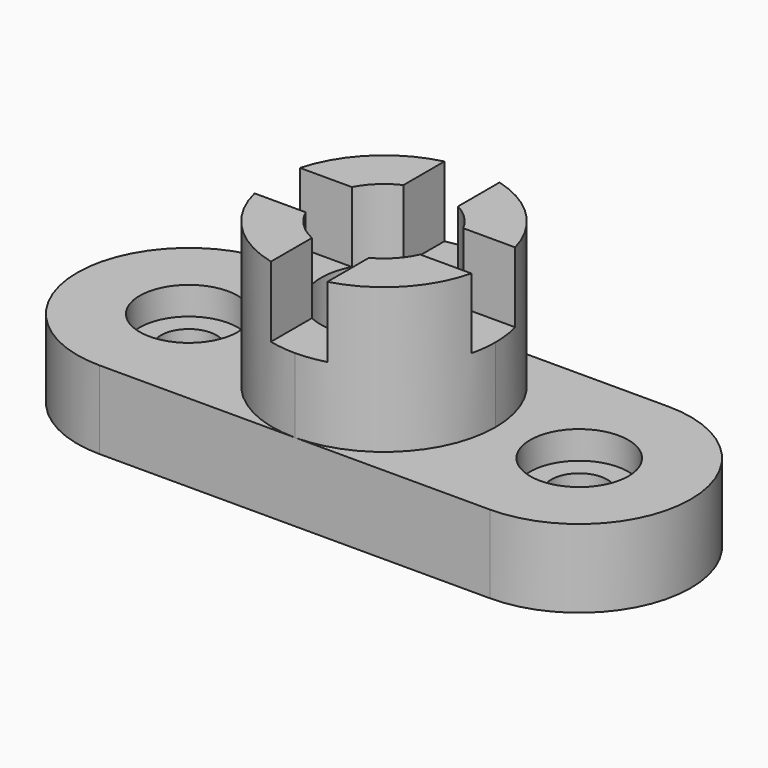
from build123d import *

# Parameters (mm, degrees)
F0_R     = 6.35
F0_R_2   = 14.351
F1_DEPTH = 17.78
F2_DEPTH = 33.02
F4_DEPTH = 16.002
F5_DEPTH = 16.0782
F6_DEPTH = 16.002
F7_DEPTH = 16.002
F8_R     = 11.176
F8_R_2   = 6.35
F9_DEPTH = 6.35


with BuildPart() as f1:
    # F0 (on Top) → F1 (new body)
    with BuildSketch(Plane.XY):
        with BuildLine():
            Line((44.45, 50.8), (0, 50.8))
            ThreePointArc((0, 50.8), (-25.4, 25.4), (0, 0))
            Line((0, 0), (44.45, 0))
            ThreePointArc((44.45, 0), (19.05, 25.4), (44.45, 50.8))
        make_face()
        with Locations((0, 25.4)):
            Circle(F0_R, mode=Mode.SUBTRACT)
        with BuildLine():
            Line((88.9, 50.8), (44.45, 50.8))
            ThreePointArc((44.45, 50.8), (62.4105122421, 43.3605122421), (69.85, 25.4))
            ThreePointArc((69.85, 25.4), (62.4105122421, 7.4394877579), (44.45, 0))
            Line((44.45, 0), (88.9, 0))
            ThreePointArc((88.9, 0), (114.3, 25.4), (88.9, 50.8))
        make_face()
        with Locations((88.9, 25.4)):
            Circle(F0_R, mode=Mode.SUBTRACT)
        with BuildLine():
            ThreePointArc((69.85, 25.4), (62.4105122421, 43.3605122421), (44.45, 50.8))
            ThreePointArc((44.45, 50.8), (19.05, 25.4), (44.45, 0))
            ThreePointArc((44.45, 0), (62.4105122421, 7.4394877579), (69.85, 25.4))
        make_face()
        with Locations((44.45, 25.4)):
            Circle(F0_R_2, mode=Mode.SUBTRACT)
    extrude(amount=-F1_DEPTH)

    # F0 (on Top) → F2 (join)
    with BuildSketch(Plane.XY):
        with BuildLine():
            ThreePointArc((69.85, 25.4), (62.4105122421, 43.3605122421), (44.45, 50.8))
            ThreePointArc((44.45, 50.8), (19.05, 25.4), (44.45, 0))
            ThreePointArc((44.45, 0), (62.4105122421, 7.4394877579), (69.85, 25.4))
        make_face()
        with Locations((44.45, 25.4)):
            Circle(F0_R_2, mode=Mode.SUBTRACT)
    extrude(amount=F2_DEPTH)

    # F3 (on face) → F4 (cut)
    with BuildSketch(Plane.XY.offset(33.02)):
        with BuildLine():
            ThreePointArc((58.801, 25.4), (58.4694202402, 22.3329073818), (57.4900032571, 19.4075450727))
            Line((57.4900032571, 19.4075450727), (69.1329998976, 19.4075450727))
            ThreePointArc((69.1329998976, 19.4075450727), (69.6701129795, 22.3824014017), (69.85, 25.4))
            ThreePointArc((69.85, 25.4), (69.6236690394, 28.7832509657), (68.9487096774, 32.1062078809))
            Line((68.9487096774, 32.1062078809), (57.1377096774, 32.1062078809))
            ThreePointArc((57.1377096774, 32.1062078809), (58.3789720113, 28.8546982082), (58.801, 25.4))
        make_face()
    extrude(amount=-F4_DEPTH, mode=Mode.SUBTRACT)

    # F3 (on face) → F5 (cut)
    with BuildSketch(Plane.XY.offset(33.02)):
        with BuildLine():
            ThreePointArc((51.1562078809, 12.7122903226), (44.8479805413, 11.0545194403), (38.4575450727, 12.3599967429))
            Line((38.4575450727, 12.3599967429), (38.4575450727, 0.7170001024))
            ThreePointArc((38.4575450727, 0.7170001024), (44.8185804404, 0.0026743837), (51.1562078809, 0.9012903226))
            Line((51.1562078809, 0.9012903226), (51.1562078809, 12.7122903226))
        make_face()
    extrude(amount=-F5_DEPTH, mode=Mode.SUBTRACT)

    # F3 (on face) → F6 (cut)
    with BuildSketch(Plane.XY.offset(33.02)):
        with BuildLine():
            Line((19.7670001024, 19.4075450727), (31.4099967429, 19.4075450727))
            ThreePointArc((31.4099967429, 19.4075450727), (30.1045194403, 25.7979805413), (31.7622903226, 32.1062078809))
            Line((31.7622903226, 32.1062078809), (19.9512903226, 32.1062078809))
            ThreePointArc((19.9512903226, 32.1062078809), (19.0526743837, 25.7685804404), (19.7670001024, 19.4075450727))
        make_face()
    extrude(amount=-F6_DEPTH, mode=Mode.SUBTRACT)

    # F3 (on face) → F7 (cut)
    with BuildSketch(Plane.XY.offset(33.02)):
        with BuildLine():
            Line((38.4575450727, 50.0829998976), (38.4575450727, 38.4400032571))
            ThreePointArc((38.4575450727, 38.4400032571), (44.8479805413, 39.7454805597), (51.1562078809, 38.0877096774))
            Line((51.1562078809, 38.0877096774), (51.1562078809, 49.8987096774))
            ThreePointArc((51.1562078809, 49.8987096774), (44.8185804404, 50.7973256163), (38.4575450727, 50.0829998976))
        make_face()
    extrude(amount=-F7_DEPTH, mode=Mode.SUBTRACT)

    # F8 (on Top) → F9 (cut)
    with BuildSketch(Plane.XY):
        with Locations((0, 25.4)):
            Circle(F8_R)
        with Locations((0, 25.4)):
            Circle(F8_R_2, mode=Mode.SUBTRACT)
        with Locations((88.9, 25.4)):
            Circle(F8_R)
        with Locations((88.9, 25.4)):
            Circle(F8_R_2, mode=Mode.SUBTRACT)
    extrude(amount=-F9_DEPTH, mode=Mode.SUBTRACT)


solid = f1.part
